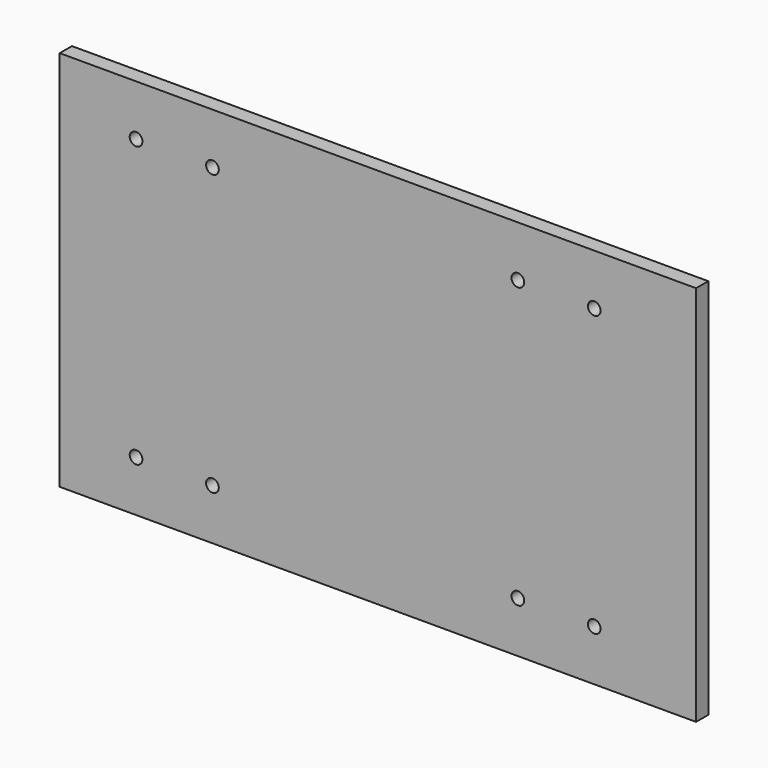
from build123d import *

# Parameters (mm, degrees)
F0_W     = 250
F0_H     = 150
F0_R     = 2.5
F1_DEPTH = 6


with BuildPart() as f1:
    # F0 (on Front) → F1 (new body)
    with BuildSketch(Plane.XZ):
        Rectangle(F0_W, F0_H)
        with Locations((-95, -55)):
            Circle(F0_R, mode=Mode.SUBTRACT)
        with Locations((-65, -55)):
            Circle(F0_R, mode=Mode.SUBTRACT)
        with Locations((55, -55)):
            Circle(F0_R, mode=Mode.SUBTRACT)
        with Locations((85, -55)):
            Circle(F0_R, mode=Mode.SUBTRACT)
        with Locations((-95, 55)):
            Circle(F0_R, mode=Mode.SUBTRACT)
        with Locations((-65, 55)):
            Circle(F0_R, mode=Mode.SUBTRACT)
        with Locations((55, 55)):
            Circle(F0_R, mode=Mode.SUBTRACT)
        with Locations((85, 55)):
            Circle(F0_R, mode=Mode.SUBTRACT)
    extrude(amount=F1_DEPTH)


solid = f1.part
